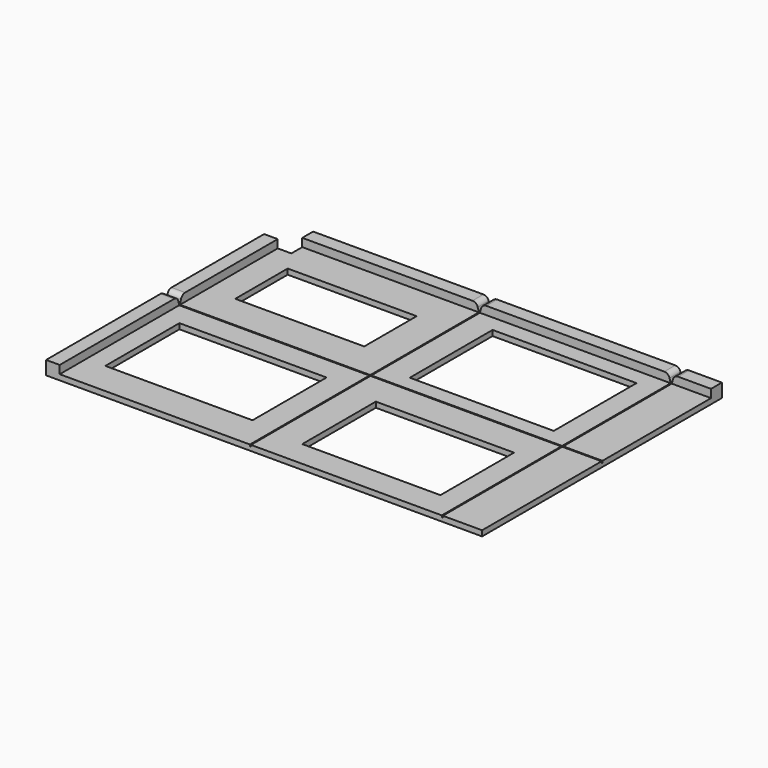
from build123d import *

# Parameters (mm, degrees)
F0_W     = 160
F0_H     = 110
F1_DEPTH = 2
F2_W     = 155
F2_H     = 5
F3_DEPTH = 3
F4_W     = 0.4
F4_H     = 100.6983700028
F4_H_2   = 0.4
F4_W_2   = 91.7048521668
F4_W_3   = 70
F4_H_3   = 101.3179807599
F4_H_4   = 104.9661831624
F4_H_5   = 97.0501676003
F4_W_4   = 42.9082732886
F5_DEPTH = 0.6
F6_DEPTH = 4
F6_TAPER = -15
F7_R     = 2
F8_W     = 10
F8_H     = 10
F8_W_2   = 47.3290588707
F8_H_2   = 24.0664053708
F8_W_3   = 54.0067385882
F8_H_3   = 33.9830359444
F8_W_4   = 52.8240427375
F8_H_4   = 37.9707552493
F8_W_5   = 50.7075823843
F8_H_5   = 33.7607157417
F9_DEPTH = 25


with BuildPart() as f1:
    # F0 (on Top) → F1 (new body)
    with BuildSketch(Plane.XY):
        with Locations((40.5911064893, 16.1241146261)):
            Rectangle(F0_W, F0_H)
    extrude(amount=F1_DEPTH)

    # F2 (on face) → F3 (join)
    with BuildSketch(Plane.XY.offset(2)):
        Polygon((-34.4088935107, 71.1241146261), (-39.4088935107, 71.1241146261), (-39.4088935107, -38.8758853739), (-34.4088935107, -38.8758853739), (-34.4088935107, 66.1241146261), align=None)
        with Locations((43.0911064893, 68.6241146261)):
            Rectangle(F2_W, F2_H)
    extrude(amount=F3_DEPTH)

    # F4 (on face) → F5 (cut)
    with BuildSketch(Plane.XY.offset(2)):
        with Locations((35.5911064893, 66.6732996275)):
            Rectangle(F4_W, F4_H)
        with Locations((35.5911064893, 16.1241146261)):
            Rectangle(F4_W, F4_H_2)
        with Locations((-10.4613195941, 16.1241146261)):
            Rectangle(F4_W_2, F4_H_2)
        with Locations((70.7911064893, 16.1241146261)):
            Rectangle(F4_W_3, F4_H_2)
        with Locations((35.5911064893, -34.7348757538)):
            Rectangle(F4_W, F4_H_3)
        with Locations((105.9911064893, 16.1241146261)):
            Rectangle(F4_W, F4_H_2)
        with Locations((105.9911064893, 68.8072062073)):
            Rectangle(F4_W, F4_H_4)
        with Locations((105.9911064893, -32.600969174)):
            Rectangle(F4_W, F4_H_5)
        with Locations((127.6452431336, 16.1241146261)):
            Rectangle(F4_W_4, F4_H_2)
    extrude(amount=-F5_DEPTH, mode=Mode.SUBTRACT)

    # F4 (on face) → F6 (cut)
    with BuildSketch(Plane.XY.offset(2)):
        with Locations((35.5911064893, 66.6732996275)):
            Rectangle(F4_W, F4_H)
        with Locations((35.5911064893, 16.1241146261)):
            Rectangle(F4_W, F4_H_2)
        with Locations((-10.4613195941, 16.1241146261)):
            Rectangle(F4_W_2, F4_H_2)
        with Locations((70.7911064893, 16.1241146261)):
            Rectangle(F4_W_3, F4_H_2)
        with Locations((35.5911064893, -34.7348757538)):
            Rectangle(F4_W, F4_H_3)
        with Locations((105.9911064893, 16.1241146261)):
            Rectangle(F4_W, F4_H_2)
        with Locations((105.9911064893, 68.8072062073)):
            Rectangle(F4_W, F4_H_4)
        with Locations((105.9911064893, -32.600969174)):
            Rectangle(F4_W, F4_H_5)
        with Locations((127.6452431336, 16.1241146261)):
            Rectangle(F4_W_4, F4_H_2)
    extrude(amount=F6_DEPTH, taper=F6_TAPER, mode=Mode.SUBTRACT)

    # F7
    f7_edges = [f1.edges().sort_by_distance(p)[0] for p in [
        (-36.908894, 17.127962, 5),
        (-36.908894, 15.120267, 5),
        (34.587259, 68.624115, 5),
        (36.594954, 68.624115, 5),
        (106.994954, 68.624115, 5),
        (104.987259, 68.624115, 5),
    ]]
    fillet(f7_edges, radius=F7_R)

    # F8 (on face) → F9 (cut)
    with BuildSketch(Plane.XY.offset(5)):
        with Locations((-34.4088935107, 66.1241146261)):
            Rectangle(F8_W, F8_H)
        with Locations((-0.7081469521, 41.1217464134)):
            Rectangle(F8_W_2, F8_H_2)
        with Locations((-0.4255371168, -9.683905635)):
            Rectangle(F8_W_3, F8_H_3)
        with Locations((71.6814361513, 41.0866308957)):
            Rectangle(F8_W_4, F8_H_4)
        with Locations((72.29234837, -12.4325060751)):
            Rectangle(F8_W_5, F8_H_5)
    extrude(amount=-F9_DEPTH, mode=Mode.SUBTRACT)


solid = f1.part
